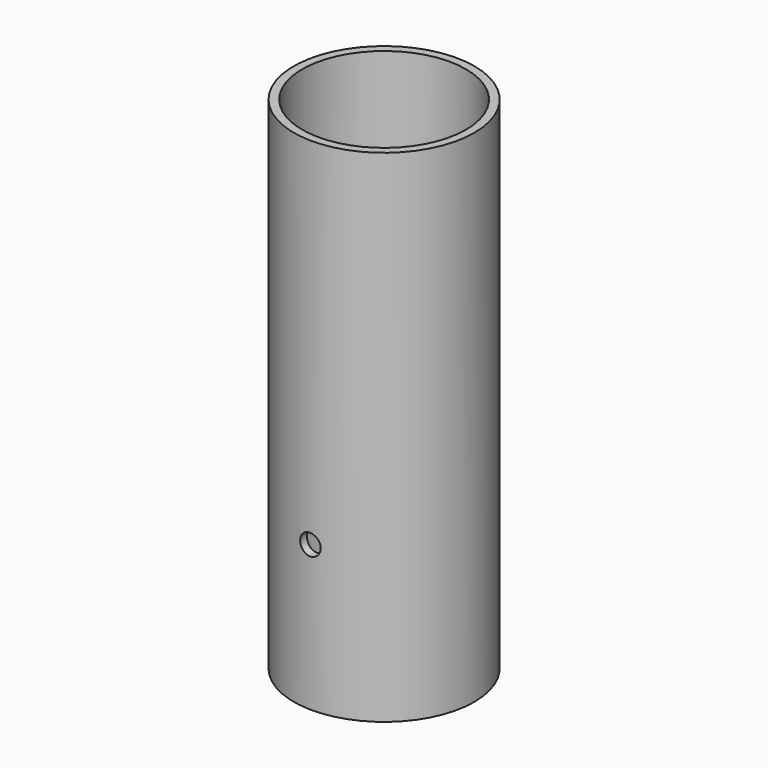
from build123d import *

# Parameters (mm, degrees)
F0_R     = 27.4575403643
F1_DEPTH = 152.4
F2_T     = -2.54
F4_D     = 6.35
F4_DEPTH = 12.7
F4_TIP   = 1.9077324654


with BuildPart() as f1:
    # F0 (on Top) → F1 (new body)
    with BuildSketch(Plane.XY):
        with Locations((-34.6127040684, 22.6622130722)):
            Circle(F0_R)
    extrude(amount=F1_DEPTH)

    # F2
    f2_openings = [f1.faces().sort_by_distance(p)[0] for p in [
        (-34.612704, 22.662213, 152.4),
    ]]
    offset(amount=F2_T, openings=f2_openings)

    # F4 (one way)
    with BuildSketch(Plane(origin=(0, 0, 0), x_dir=(1, 0, 0), z_dir=(0, 1, 0))):
        with Locations((-35.1956561208, -44.1724844277)):
            Circle(F4_D / 2)
    extrude(amount=-F4_DEPTH, mode=Mode.SUBTRACT)
    with Locations(Plane(origin=(0, 0, 0), x_dir=(1, 0, 0), z_dir=(0, 1, 0))):
        with Locations((-35.1956561208, -44.1724844277)):
            with Locations((0, 0, -(F4_DEPTH + F4_TIP / 2))):  # 118° drill point
                Cone(0, F4_D / 2, F4_TIP, mode=Mode.SUBTRACT)


solid = f1.part
